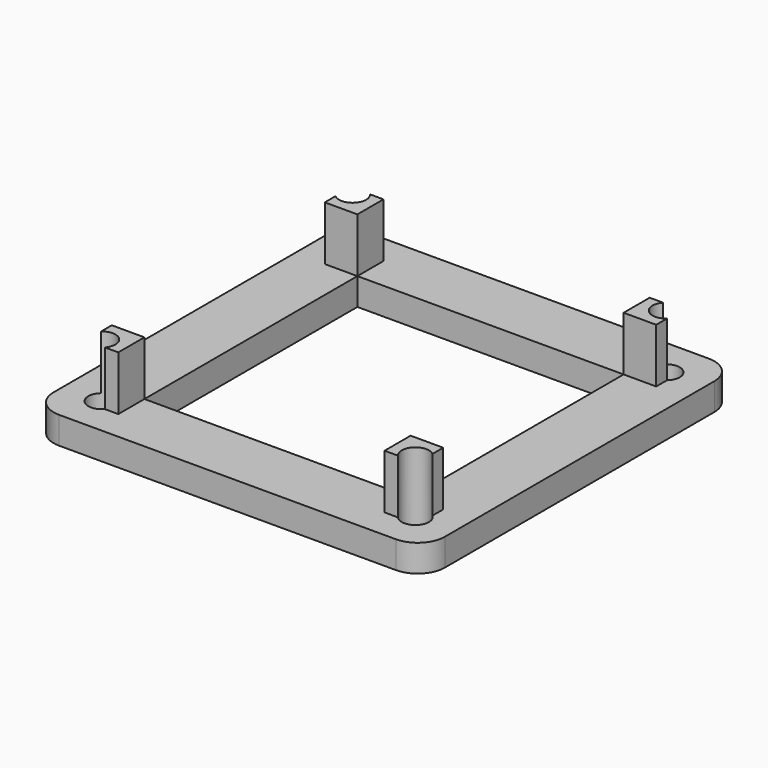
from build123d import *

# Parameters (mm, degrees)
PAD_DEPTH       = 5
SKETCH001_W     = 6
SKETCH001_H     = 6
PAD001_DEPTH    = 10
SKETCH002_W     = 49
SKETCH002_H     = 49
POCKET_DEPTH    = 5.001
SKETCH003_R     = 2.5
POCKET001_DEPTH = 15.001


with BuildPart() as part:
    # Sketch → Pad (new body)
    with BuildSketch(Plane.XY):
        with BuildLine():
            ThreePointArc((-31, 36), (-34.535534, 34.535534), (-36, 31))
            Line((-36, 31), (-36, -31))
            ThreePointArc((-36, -31), (-34.535534, -34.535534), (-31, -36))
            Line((-31, -36), (31, -36))
            ThreePointArc((31, -36), (34.535534, -34.535534), (36, -31))
            Line((36, -31), (36, 31))
            ThreePointArc((36, 31), (34.535534, 34.535534), (31, 36))
            Line((31, 36), (-31, 36))
        make_face()
    extrude(amount=PAD_DEPTH)

    # Sketch001 (on Face10 of Pad) → Pad001 (join)
    with BuildSketch(Plane.XY.offset(5)):
        with Locations((-27.5, 27.5)):
            Rectangle(SKETCH001_W, SKETCH001_H)
        with Locations((27.5, 27.5)):
            Rectangle(SKETCH001_W, SKETCH001_H)
        with Locations((27.5, -27.5)):
            Rectangle(SKETCH001_W, SKETCH001_H)
        with Locations((-27.5, -27.5)):
            Rectangle(SKETCH001_W, SKETCH001_H)
    extrude(amount=PAD001_DEPTH)

    # Sketch002 (on Face5 of Pad001) → Pocket (cut, through all)
    with BuildSketch(Plane.XY.offset(5)):
        Rectangle(SKETCH002_W, SKETCH002_H)
    extrude(amount=-POCKET_DEPTH, mode=Mode.SUBTRACT)

    # Sketch003 (on Face4 of Pocket) → Pocket001 (cut, through all)
    with BuildSketch(Plane(origin=(0, 0, 0), x_dir=(1, 0, 0), z_dir=(0, 0, -1))):
        with Locations((-28.849957, 28.849957)):
            Circle(SKETCH003_R)
        with Locations((28.849957, 28.849957)):
            Circle(SKETCH003_R)
        with Locations((28.849957, -28.849957)):
            Circle(SKETCH003_R)
        with Locations((-28.849957, -28.849957)):
            Circle(SKETCH003_R)
    extrude(amount=-POCKET001_DEPTH, mode=Mode.SUBTRACT)


solid = part.part
